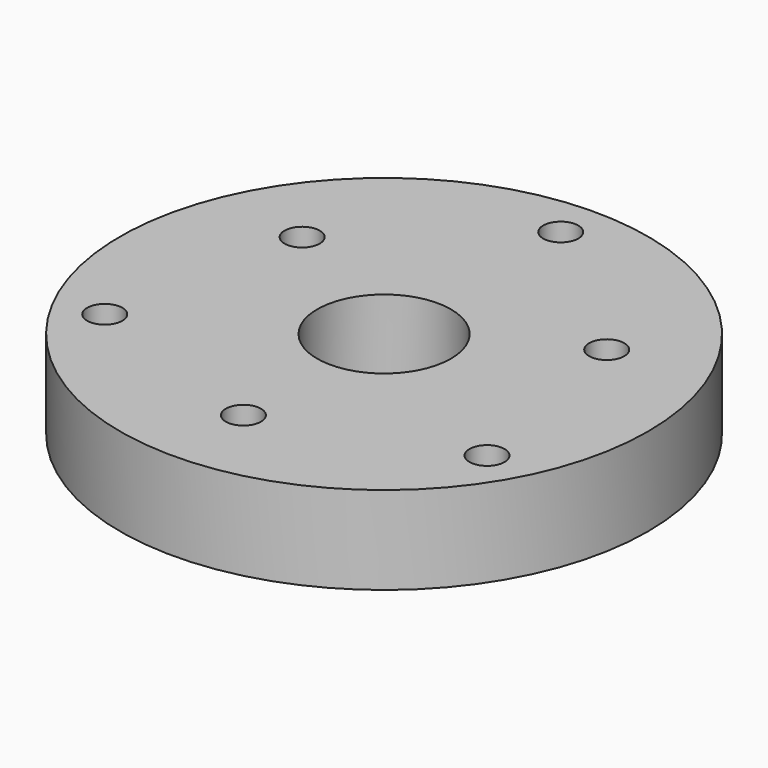
from build123d import *

# Parameters (mm, degrees)
F0_R     = 30
F0_R_2   = 2
F0_R_3   = 7.6
F1_DEPTH = 10


with BuildPart() as f1:
    # F0 (on Top) → F1 (new body)
    with BuildSketch(Plane.XY):
        Circle(F0_R)
        with Locations((-21.72507, -12.528924)):
            Circle(F0_R_2, mode=Mode.SUBTRACT)
        with Locations((0, -19.98595)):
            Circle(F0_R_2, mode=Mode.SUBTRACT)
        with Locations((21.72507, -12.528924)):
            Circle(F0_R_2, mode=Mode.SUBTRACT)
        with Locations((-17.30834, 9.992975)):
            Circle(F0_R_2, mode=Mode.SUBTRACT)
        Circle(F0_R_3, mode=Mode.SUBTRACT)
        with Locations((17.30834, 9.992975)):
            Circle(F0_R_2, mode=Mode.SUBTRACT)
        with Locations((0, 25.1)):
            Circle(F0_R_2, mode=Mode.SUBTRACT)
    extrude(amount=F1_DEPTH)


solid = f1.part
